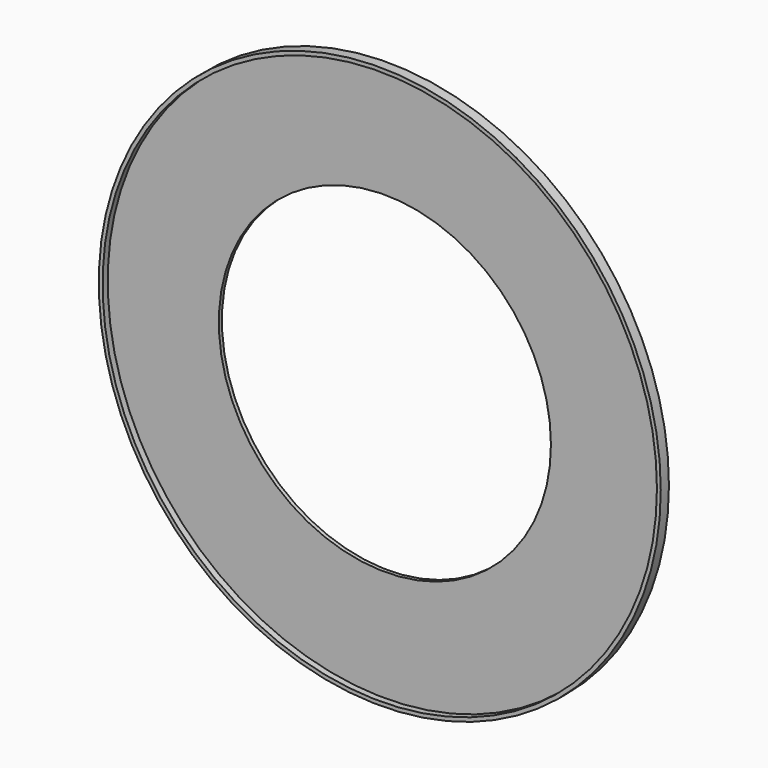
from build123d import *

# Parameters (mm, degrees)
F0_R     = 220
F1_DEPTH = 8
F2_T     = -3
F3_R     = 130
F4_DEPTH = 8.001


with BuildPart() as f1:
    # F0 (on Front) → F1 (new body)
    with BuildSketch(Plane.XZ):
        Circle(F0_R)
    extrude(amount=F1_DEPTH)

    # F2
    f2_openings = [f1.faces().sort_by_distance(p)[0] for p in [
        (0, -8, 0),
    ]]
    offset(amount=F2_T, openings=f2_openings)

    # F3 (on face) → F4 (cut, through all)
    with BuildSketch(Plane.XZ.offset(8)):
        Circle(F3_R)
    extrude(amount=-F4_DEPTH, mode=Mode.SUBTRACT)


solid = f1.part
